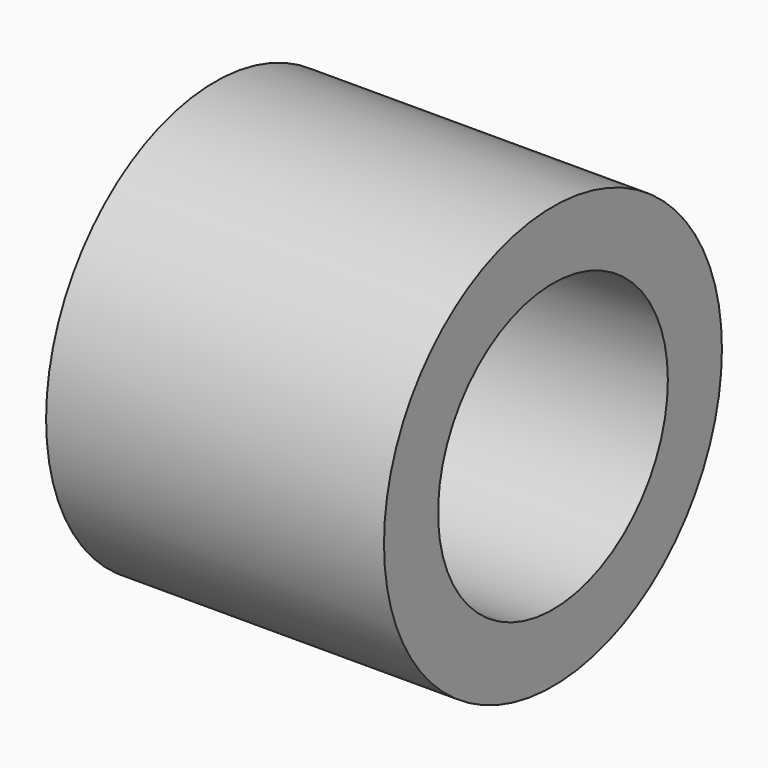
from build123d import *

# Parameters (mm, degrees)
F0_R     = 15.875
F1_DEPTH = 25.4
F2_R     = 10.795
F3_DEPTH = 20


with BuildPart() as f1:
    # F0 (on Right) → F1 (new body)
    with BuildSketch(Plane.YZ):
        Circle(F0_R)
        with BuildLine():
            Line((1, -1.118034), (-1, -1.118034))
            ThreePointArc((-1, -1.118034), (0, 1.5), (1, -1.118034))
        make_face(mode=Mode.SUBTRACT)
    extrude(amount=F1_DEPTH)

    # F2 (on face) → F3 (cut)
    with BuildSketch(Plane.YZ.offset(25.4)):
        Circle(F2_R)
    extrude(amount=-F3_DEPTH, mode=Mode.SUBTRACT)


solid = f1.part
